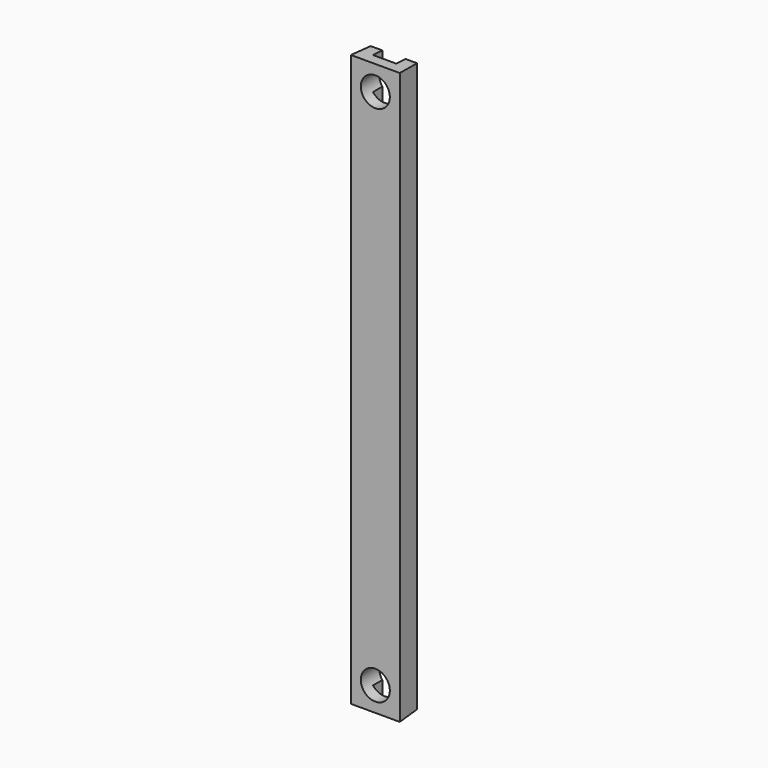
from build123d import *

# Parameters (mm, degrees)
F0_W     = 16
F0_H     = 196
F1_DEPTH = 8
F1_TAPER = -3
F2_W     = 8
F2_H     = 200
F3_DEPTH = 4
F4_R     = 5
F5_DEPTH = 25.4


with BuildPart() as f1:
    # F0 (on Front) → F1 (new body)
    with BuildSketch(Plane.XZ):
        Rectangle(F0_W, F0_H)
    extrude(amount=F1_DEPTH, taper=F1_TAPER)

    # F2 (on face) → F3 (cut)
    with BuildSketch(Plane.XZ):
        Rectangle(F2_W, F2_H)
    extrude(amount=F3_DEPTH, mode=Mode.SUBTRACT)

    # F4 (on Front) → F5 (cut)
    with BuildSketch(Plane.XZ):
        with Locations((0, 90)):
            Circle(F4_R)
        with Locations((0, -90)):
            Circle(F4_R)
    extrude(amount=F5_DEPTH, mode=Mode.SUBTRACT)


solid = f1.part
